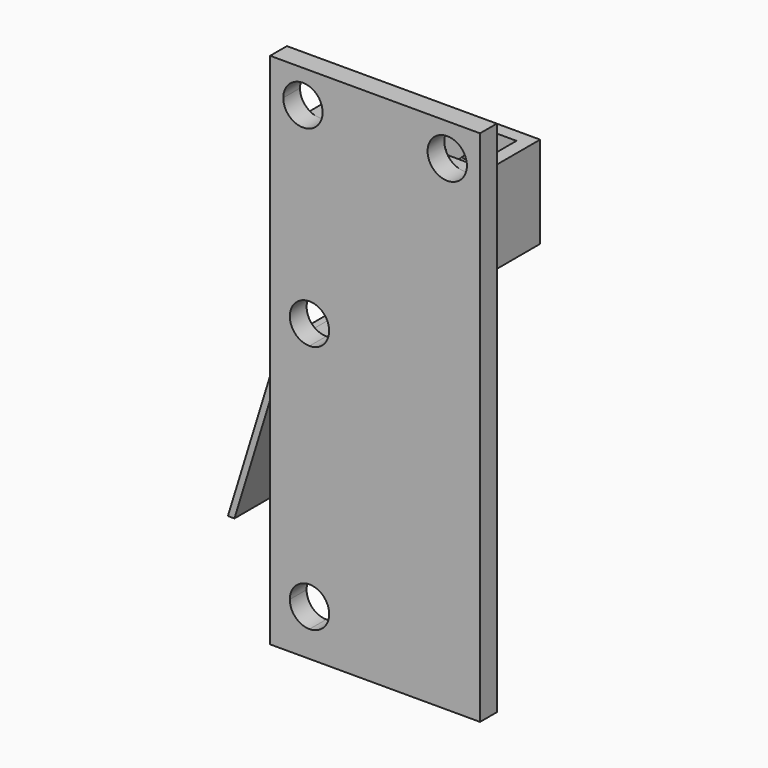
from build123d import *

# Parameters (mm, degrees)
F1_DEPTH  = 1.6
F3_DEPTH  = 6
F5_DEPTH  = 6
F7_DEPTH  = 6
F8_W      = 11
F8_H      = 4
F9_DEPTH  = 6
F10_R     = 0.5
F11_DEPTH = 5
F12_SIZE  = 0.25


with BuildPart() as f1:
    # F0 (on Front) → F1 (new body)
    with BuildSketch(Plane.XZ):
        with BuildLine():
            Line((3, 2), (3, 0))
            Line((3, 0), (16, 0))
            Line((16, 0), (16, 37))
            Line((16, 37), (15, 37))
            ThreePointArc((15, 37), (12.4393398282, 35.9393398282), (13.5, 38.5))
            Line((13.5, 38.5), (13.5, 39.5))
            Line((13.5, 39.5), (2.5, 39.5))
            Line((2.5, 39.5), (2.5, 38.5))
            ThreePointArc((2.5, 38.5), (3.5606601718, 38.0606601718), (4, 37))
            ThreePointArc((4, 37), (2.5, 35.5), (1, 37))
            Line((1, 37), (0, 37))
            Line((0, 37), (0, 3.5))
            Line((0, 3.5), (1.5, 3.5))
            ThreePointArc((1.5, 3.5), (1.9393398282, 4.5606601718), (3, 5))
            ThreePointArc((3, 5), (4.0606601718, 4.5606601718), (4.5, 3.5))
            ThreePointArc((4.5, 3.5), (4.0606601718, 2.4393398282), (3, 2))
        make_face()
        with BuildLine():
            ThreePointArc((4.5, 22.5), (4.0606601718, 21.4393398282), (3, 21))
            ThreePointArc((3, 21), (1.9393398282, 23.5606601718), (4.5, 22.5))
        make_face(mode=Mode.SUBTRACT)
        with BuildLine():
            Line((0, 3.5), (0, 0))
            Line((0, 0), (3, 0))
            Line((3, 0), (3, 2))
            ThreePointArc((3, 2), (1.9393398282, 2.4393398282), (1.5, 3.5))
            Line((1.5, 3.5), (0, 3.5))
        make_face()
        with BuildLine():
            Line((0, 39.5), (0, 37))
            Line((0, 37), (1, 37))
            ThreePointArc((1, 37), (1.4393398282, 38.0606601718), (2.5, 38.5))
            Line((2.5, 38.5), (2.5, 39.5))
            Line((2.5, 39.5), (0, 39.5))
        make_face()
        with BuildLine():
            Line((15, 37), (16, 37))
            Line((16, 37), (16, 39.5))
            Line((16, 39.5), (13.5, 39.5))
            Line((13.5, 39.5), (13.5, 38.5))
            ThreePointArc((13.5, 38.5), (14.5606601718, 38.0606601718), (15, 37))
        make_face()
    extrude(amount=F1_DEPTH)


with BuildPart() as f3:
    # F2 (on face) → F3 (new body)
    with BuildSketch(Plane(origin=(0, 0, 0), x_dir=(-1, 0, 0), z_dir=(0, 1, 0))):
        Polygon((-3, 19.5), (-3, 13), (-3, 6.5), (0, 6.5), (0, 19.5), align=None)
        Polygon((-3, 6.5), (-3, 13), (-3, 19.5), (-6, 19.5), (-6, 6.5), align=None)
    extrude(amount=F3_DEPTH)


with BuildPart() as f5:
    # F4 (on face) → F5 (new body)
    with BuildSketch(Plane(origin=(0, 0, 0), x_dir=(-1, 0, 0), z_dir=(0, 1, 0))):
        Polygon((-1.5, 28.5), (-1.5, 35.5), (-2.5, 35.5), (-13.5, 35.5), (-14.5, 35.5), (-14.5, 28.5), align=None)
    extrude(amount=F5_DEPTH)

    # F8 (on face) → F9 (cut)
    with BuildSketch(Plane.XY.offset(35.5)):
        with Locations((8, 3)):
            Rectangle(F8_W, F8_H)
    extrude(amount=-F9_DEPTH, mode=Mode.SUBTRACT)

    # F10 (on face) → F11 (join)
    with BuildSketch(Plane.XY.offset(29.5)):
        with Locations((11.3, 3)):
            Circle(F10_R)
        with Locations((9.1, 3)):
            Circle(F10_R)
        with Locations((6.9, 3)):
            Circle(F10_R)
        with BuildLine():
            ThreePointArc((5.2, 3), (4.7, 3.5), (4.2, 3))
            ThreePointArc((4.2, 3), (4.7, 2.5), (5.2, 3))
        make_face()
    extrude(amount=F11_DEPTH)

    # F12
    f12_edges = [f5.edges().sort_by_distance(p)[0] for p in [
        (5.2, 3, 34.5),
        (6.4, 3, 34.5),
        (8.6, 3, 34.5),
        (10.8, 3, 34.5),
    ]]
    chamfer(f12_edges, length=F12_SIZE)


with BuildPart() as f7:
    # F6 (on face) → F7 (new body)
    with BuildSketch(Plane(origin=(0, 6, 0), x_dir=(-1, 0, 0), z_dir=(0, 1, 0))):
        Polygon((0.5, 19.5), (0, 19.5), (0.3076923077, 18.5), (4, 6.5), (4.5, 6.5), align=None)
        Polygon((0.3076923077, 18.5), (0, 19.5), (0, 18.5), align=None)
    extrude(amount=-F7_DEPTH)


solid = Compound([f1.part, f3.part, f5.part, f7.part])
